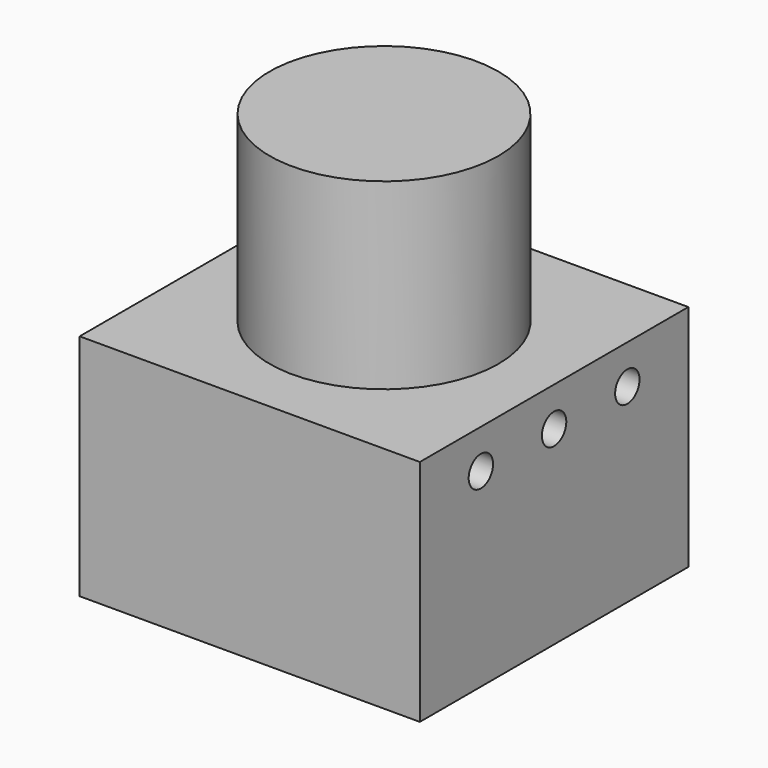
from build123d import *

# Parameters (mm, degrees)
F0_W     = 22.3
F0_H     = 22
F1_DEPTH = 15
F3_START = 15
F2_R     = 7.5
F3_DEPTH = 12
F5_START = -9
F4_R     = 1
F5_DEPTH = 3
F6_START = 9
F6_DEPTH = 4


with BuildPart() as f1:
    # F0 (on Top) → F1 (new body)
    with BuildSketch(Plane.XY):
        Rectangle(F0_W, F0_H)
    extrude(amount=F1_DEPTH)

    # F2 (on Top) → F3 (join)
    with BuildSketch(Plane.XY.offset(F3_START)):
        Circle(F2_R)
    extrude(amount=F3_DEPTH)

    # F4 (on Right) → F5 (cut)
    with BuildSketch(Plane.YZ.offset(F5_START)):
        with Locations((6, 12.4410456046)):
            Circle(F4_R)
        with Locations((0, 12.4410456046)):
            Circle(F4_R)
        with Locations((-6, 12.4410456046)):
            Circle(F4_R)
    extrude(amount=-F5_DEPTH, mode=Mode.SUBTRACT)

    # F4 (on Right) → F6 (cut)
    with BuildSketch(Plane.YZ.offset(F6_START)):
        with Locations((6, 12.4410456046)):
            Circle(F4_R)
        with Locations((0, 12.4410456046)):
            Circle(F4_R)
        with Locations((-6, 12.4410456046)):
            Circle(F4_R)
    extrude(amount=F6_DEPTH, mode=Mode.SUBTRACT)


solid = f1.part
